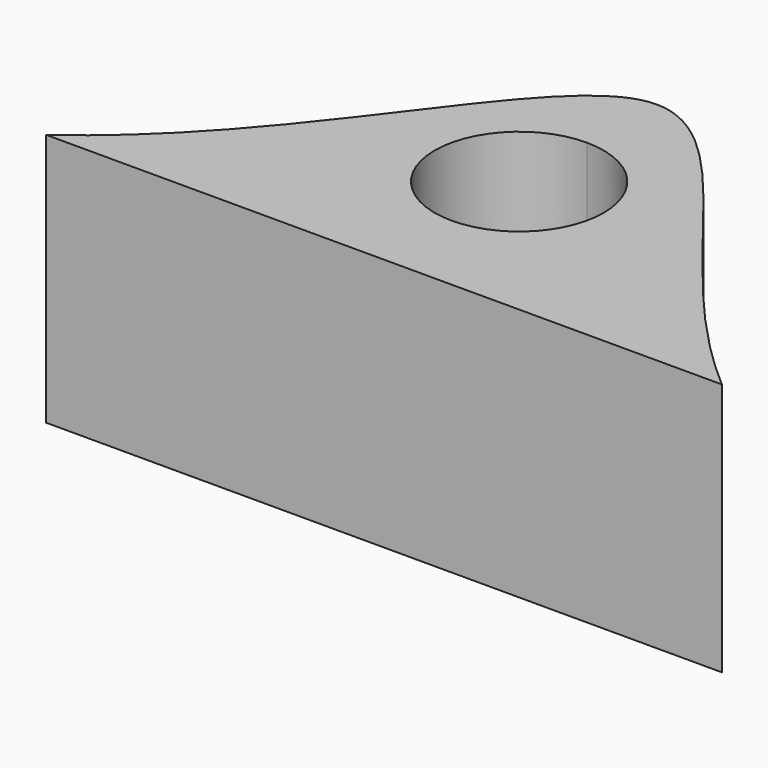
from build123d import *

# Parameters (mm, degrees)
F1_DEPTH = 7.5


with BuildPart() as f1:
    # F0 (on Top) → F1 (new body)
    with BuildSketch(Plane.XY):
        with BuildLine():
            add(Edge.make_bspline(
                [(-27.688302, -12.385041), (-22.736946, -8.859688), (-20.293253, -2.487868), (-17.688302, -2.385041)],
                knots=[0, 0, 0, 0, 14.142136, 14.142136, 14.142136, 14.142136], degree=3))
            Line((-27.688302, -12.385041), (-17.688302, -12.385041))
            Line((-17.688302, -12.385041), (-17.688302, -9.885041))
            ThreePointArc((-17.688302, -9.885041), (-20.188302, -7.385041), (-17.688302, -4.885041))
            Line((-17.688302, -4.885041), (-17.688302, -2.385041))
        make_face()
        with BuildLine():
            Line((-17.688302, -9.885041), (-17.688302, -12.385041))
            Line((-17.688302, -12.385041), (-7.688302, -12.385041))
            add(Edge.make_bspline(
                [(-17.688302, -2.385041), (-15.083351, -2.282215), (-12.317142, -8.448381), (-7.688302, -12.385041)],
                knots=[14.142136, 14.142136, 14.142136, 14.142136, 28.284271, 28.284271, 28.284271, 28.284271], degree=3))
            Line((-17.688302, -2.385041), (-17.688302, -4.885041))
            ThreePointArc((-17.688302, -4.885041), (-15.920535, -5.617274), (-15.188302, -7.385041))
            ThreePointArc((-15.188302, -7.385041), (-15.920535, -9.152808), (-17.688302, -9.885041))
        make_face()
    extrude(amount=F1_DEPTH)


solid = f1.part
